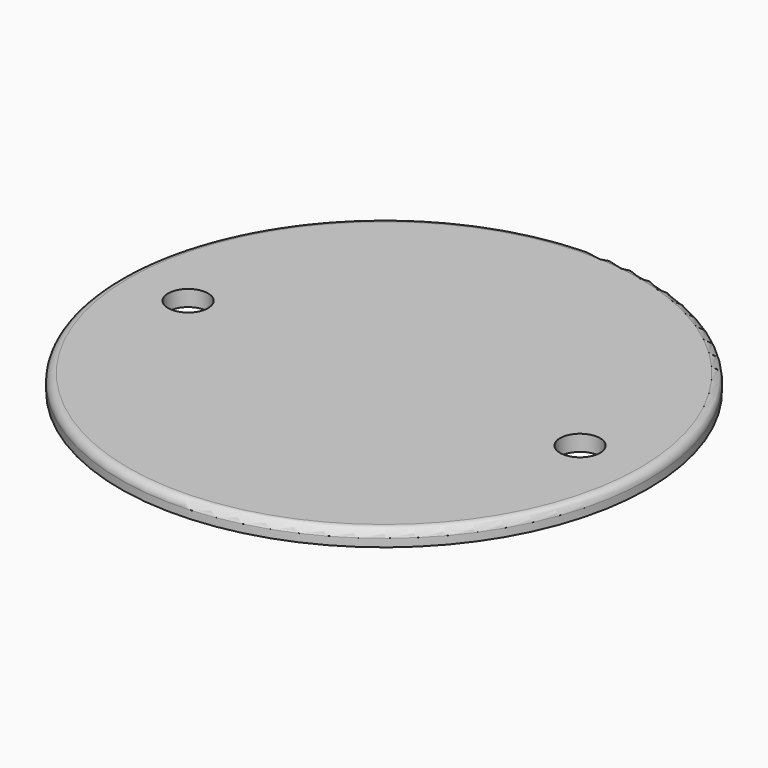
from build123d import *

# Parameters (mm, degrees)
F0_R     = 33
F1_DEPTH = 2
F2_R     = 2.5
F3_DEPTH = 25
F4_R     = 1


with BuildPart() as f1:
    # F0 (on Top) → F1 (new body)
    with BuildSketch(Plane.XY):
        Circle(F0_R)
    extrude(amount=F1_DEPTH)

    # F2 (on face) → F3 (cut)
    with BuildSketch(Plane.XY.offset(2)):
        with Locations((-24.5, 0)):
            Circle(F2_R)
        with Locations((24.5, 0)):
            Circle(F2_R)
    extrude(amount=-F3_DEPTH, mode=Mode.SUBTRACT)

    # F4
    f4_edges = [f1.edges().sort_by_distance(p)[0] for p in [
        (-33, 0, 2),
    ]]
    fillet(f4_edges, radius=F4_R)


solid = f1.part
